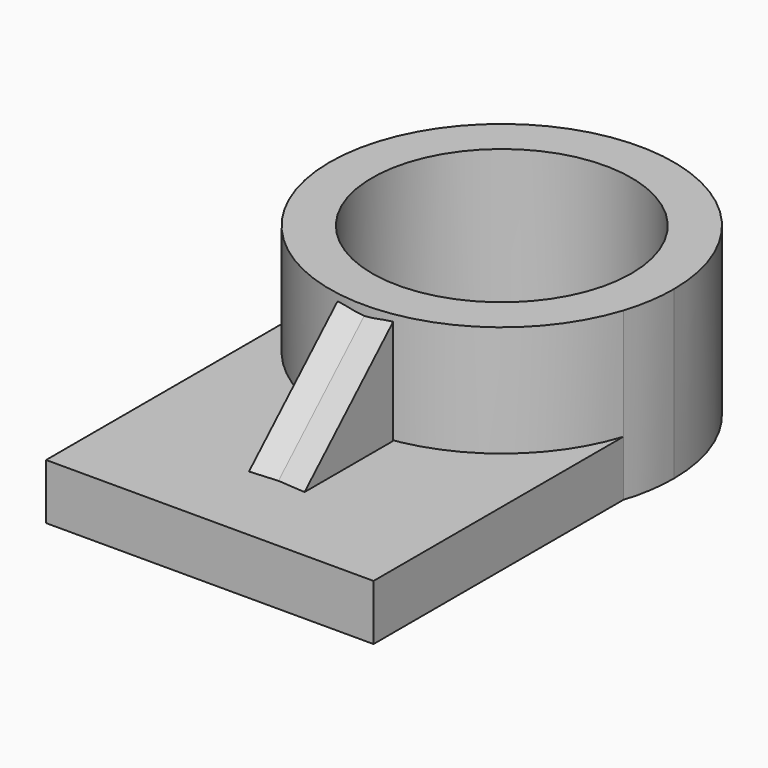
from build123d import *

# Parameters (mm, degrees)
F0_W     = 74.814543128
F0_H     = 71.3509097695
F1_DEPTH = 12.7
F3_DEPTH = 38.1
F4_DEPTH = 38.1
F6_DEPTH = 6.35
F6_TAPER = -3


with BuildPart() as f1:
    # F0 (on Top) → F1 (new body)
    with BuildSketch(Plane.XY):
        Rectangle(F0_W, F0_H)
    extrude(amount=F1_DEPTH)

    # F2 (on face) → F3 (join)
    with BuildSketch(Plane(origin=(0, 0, 0), x_dir=(1, 0, 0), z_dir=(0, 0, -1))):
        with BuildLine():
            Line((27.0553643694, -35.6754548848), (37.407271564, -35.6754548848))
            ThreePointArc((37.407271564, -35.6754548848), (0, -8.418886875), (-37.407271564, -35.6754548848))
            Line((-37.407271564, -35.6754548848), (-27.0553643694, -35.6754548848))
            ThreePointArc((-27.0553643694, -35.6754548848), (0, -18.1025332163), (27.0553643694, -35.6754548848))
        make_face()
        with BuildLine():
            ThreePointArc((-37.407271564, -35.6754548848), (-6.0941405685, -86.5382776277), (39.2973991584, -47.7162860334))
            ThreePointArc((39.2973991584, -47.7162860334), (38.8219915943, -41.6221454649), (37.407271564, -35.6754548848))
            Line((37.407271564, -35.6754548848), (27.0553643694, -35.6754548848))
            ThreePointArc((27.0553643694, -35.6754548848), (28.9670953732, -41.5614715317), (29.6137528171, -47.7162860334))
            ThreePointArc((29.6137528171, -47.7162860334), (-6.1548145016, -76.6833814066), (-27.0553643694, -35.6754548848))
            Line((-27.0553643694, -35.6754548848), (-37.407271564, -35.6754548848))
        make_face()
    extrude(amount=-F3_DEPTH)

    # F4 (cut, symmetric): a face of the model
    f4_faces = [f1.faces().sort_by_distance(p)[0] for p in [
        (0, 28.4298339612, 12.7),
    ]]
    extrude(f4_faces, amount=F4_DEPTH, both=True, mode=Mode.SUBTRACT)

    # F5 (on Right) → F6 (join, symmetric)
    with BuildSketch(Plane.YZ):
        Polygon((-16.0677041858, 12.7), (8.418886875, 12.7), (8.418886875, 35.9063632786), align=None)
    extrude(amount=F6_DEPTH, both=True, taper=F6_TAPER)


solid = f1.part
